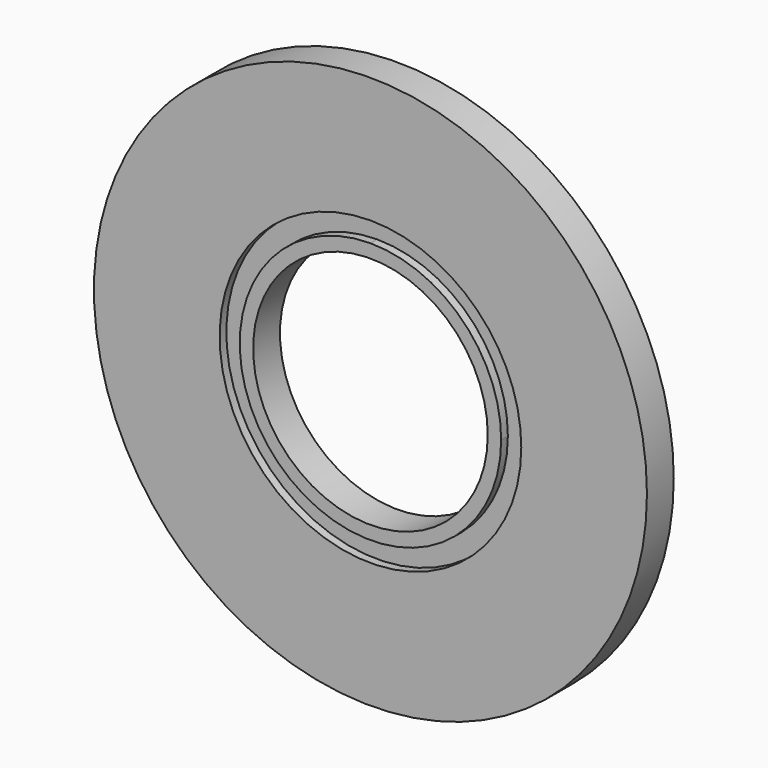
from build123d import *

# Parameters (mm, degrees)
F0_R     = 33
F0_R_2   = 14
F1_DEPTH = 4
F3_DEPTH = 1


with BuildPart() as f1:
    # F0 (on Front) → F1 (new body)
    with BuildSketch(Plane.XZ):
        Circle(F0_R)
        Circle(F0_R_2, mode=Mode.SUBTRACT)
    extrude(amount=F1_DEPTH)

    # F2 (on face) → F3 (cut)
    with BuildSketch(Plane.XZ.offset(4)):
        with BuildLine():
            ThreePointArc((0, 18), (-12.727922, -12.727922), (18, 0))
            ThreePointArc((18, 0), (12.727922, 12.727922), (0, 18))
        make_face()
        with BuildLine():
            ThreePointArc((15.6, 0), (-11.030866, -11.030866), (0, 15.6))
            ThreePointArc((0, 15.6), (11.030866, 11.030866), (15.6, 0))
        make_face(mode=Mode.SUBTRACT)
    extrude(amount=-F3_DEPTH, mode=Mode.SUBTRACT)


solid = f1.part
